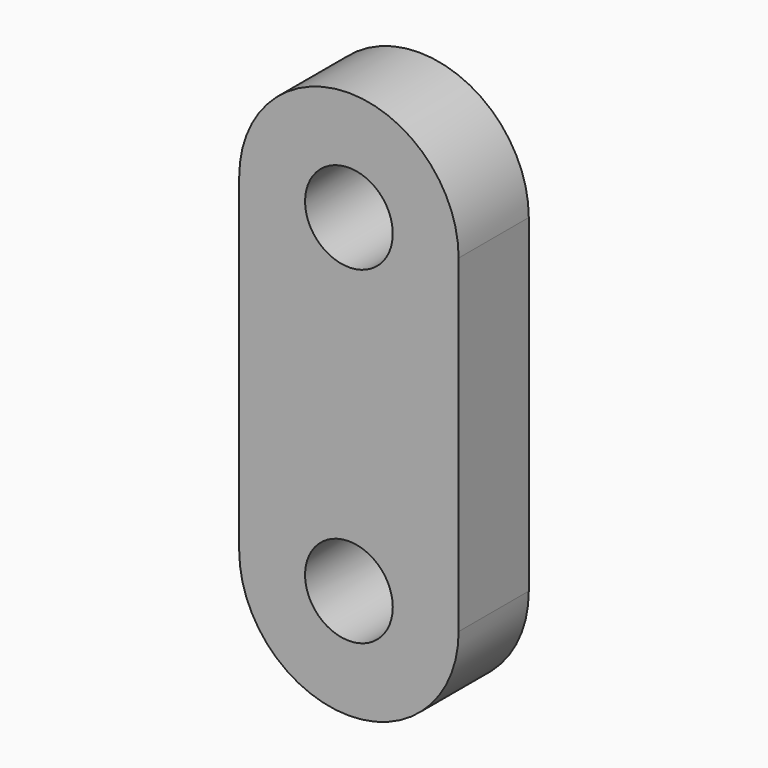
from build123d import *

# Parameters (mm, degrees)
F1_DEPTH = 8


with BuildPart() as f1:
    # F0 (on Front) → F1 (new body)
    with BuildSketch(Plane.XZ):
        with BuildLine():
            ThreePointArc((-20.0152, 29.9974), (-10.0076, 19.9898), (0, 29.9974))
            Line((0, 29.9974), (-6.0071, 29.9974))
            ThreePointArc((-6.0071, 29.9974), (-10.0076, 25.9969), (-14.0081, 29.9974))
            Line((-14.0081, 29.9974), (-20.0152, 29.9974))
        make_face()
        with BuildLine():
            Line((-6.0071, 29.9974), (0, 29.9974))
            ThreePointArc((0, 29.9974), (-10.0076, 40.005), (-20.0152, 29.9974))
            Line((-20.0152, 29.9974), (-14.0081, 29.9974))
            ThreePointArc((-14.0081, 29.9974), (-10.0076, 33.9979), (-6.0071, 29.9974))
        make_face()
        with BuildLine():
            ThreePointArc((-20.0152, 0), (-10.0076, 10.0076), (0, 0))
            Line((0, 0), (0, 29.9974))
            ThreePointArc((0, 29.9974), (-10.0076, 19.9898), (-20.0152, 29.9974))
            Line((-20.0152, 29.9974), (-20.0152, 0))
        make_face()
        with BuildLine():
            ThreePointArc((-20.0152, 0), (-10.0076, -10.0076), (0, 0))
            Line((0, 0), (-6.0071, 0))
            ThreePointArc((-6.0071, 0), (-10.0076, -4.0005), (-14.0081, 0))
            Line((-14.0081, 0), (-20.0152, 0))
        make_face()
        with BuildLine():
            Line((-6.0071, 0), (0, 0))
            ThreePointArc((0, 0), (-10.0076, 10.0076), (-20.0152, 0))
            Line((-20.0152, 0), (-14.0081, 0))
            ThreePointArc((-14.0081, 0), (-10.0076, 4.0005), (-6.0071, 0))
        make_face()
    extrude(amount=F1_DEPTH)


solid = f1.part
